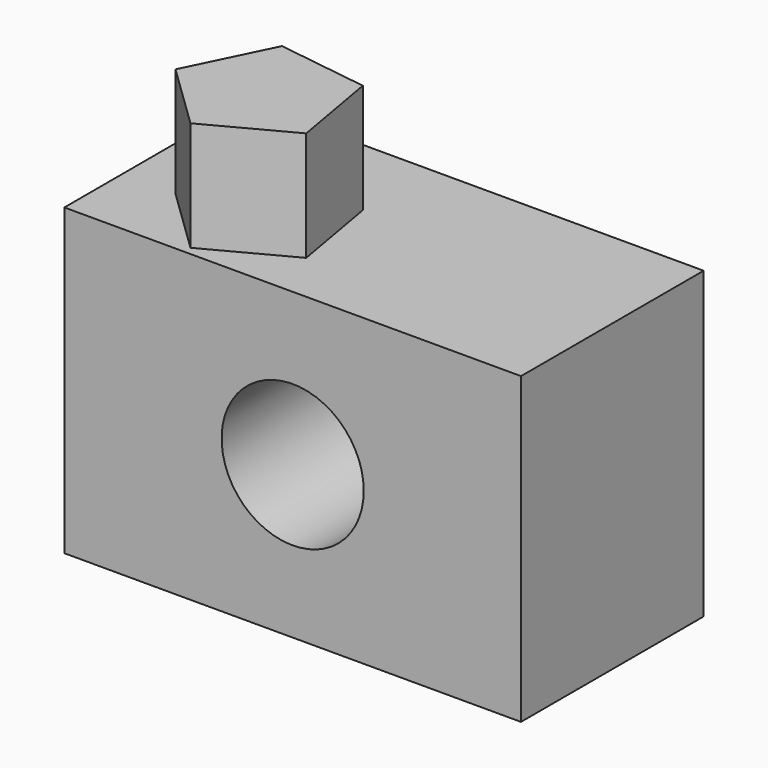
from build123d import *

# Parameters (mm, degrees)
F0_W     = 152.4
F0_H     = 101.6
F1_DEPTH = 76.2
F2_R     = 23.715347
F3_DEPTH = 76.201
F5_DEPTH = 36.57971


with BuildPart() as f1:
    # F0 (on Front) → F1 (new body)
    with BuildSketch(Plane.XZ):
        Rectangle(F0_W, F0_H)
    extrude(amount=F1_DEPTH)

    # F2 (on face) → F3 (cut, through all)
    with BuildSketch(Plane.XZ.offset(76.2)):
        Circle(F2_R)
    extrude(amount=-F3_DEPTH, mode=Mode.SUBTRACT)

    # F4 (on face) → F5 (join)
    with BuildSketch(Plane.XY.offset(50.8)):
        Polygon((-14.505152, -28.816074), (-44.9058, -24.522467), (-58.38358, -52.108403), (-36.312659, -73.451057), (-9.194299, -59.055606), align=None)
    extrude(amount=F5_DEPTH)


solid = f1.part
